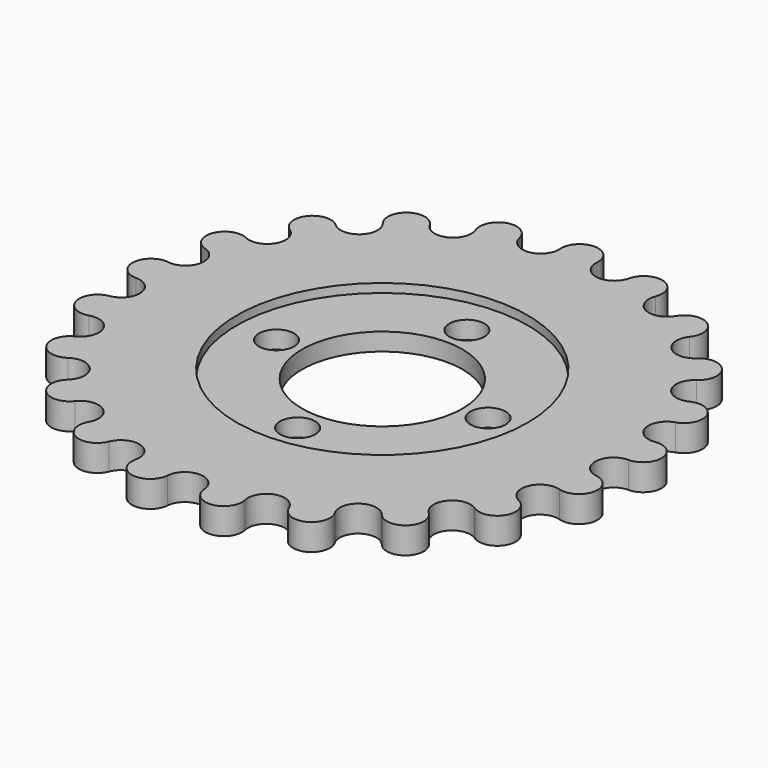
from build123d import *

# Parameters (mm, degrees)
F0_R     = 1
F0_R_2   = 4.55
F1_DEPTH = 1.5
F2_R     = 8.25
F3_DEPTH = 0.5


with BuildPart() as f1:
    # F0 (on Top) → F1 (new body)
    with BuildSketch(Plane.XY):
        with BuildLine():
            ThreePointArc((3.106582, 13.610825), (1.930661, 12.809096), (1.043296, 13.921816))
            ThreePointArc((1.043296, 13.921816), (0, 15.046221), (-1.043296, 13.921816))
            ThreePointArc((-1.043296, 13.921816), (-1.930661, 12.809096), (-3.106582, 13.610825))
            ThreePointArc((-3.106582, 13.610825), (-4.434952, 14.37776), (-5.100472, 12.995792))
            ThreePointArc((-5.100472, 12.995792), (-5.620434, 11.670951), (-6.980427, 12.090453))
            ThreePointArc((-6.980427, 12.090453), (-8.475838, 12.431771), (-8.70445, 10.915035))
            ThreePointArc((-8.70445, 10.915035), (-8.810807, 9.495792), (-10.23403, 9.495792))
            ThreePointArc((-10.23403, 9.495792), (-11.76361, 9.381166), (-11.534998, 7.864429))
            ThreePointArc((-11.534998, 7.864429), (-11.218301, 6.476889), (-12.578294, 6.057387))
            ThreePointArc((-12.578294, 6.057387), (-14.006132, 5.497002), (-13.340612, 4.115034))
            ThreePointArc((-13.340612, 4.115034), (-12.629, 2.882487), (-13.804922, 2.080757))
            ThreePointArc((-13.804922, 2.080757), (-15.004149, 1.124406), (-13.960853, 0))
            ThreePointArc((-13.960853, 0), (-12.917557, -0.968037), (-13.804922, -2.080757))
            ThreePointArc((-13.804922, -2.080757), (-14.668981, -3.348099), (-13.340612, -4.115034))
            ThreePointArc((-13.340612, -4.115034), (-12.058333, -4.732547), (-12.578294, -6.057387))
            ThreePointArc((-12.578294, -6.057387), (-13.03041, -7.523111), (-11.534998, -7.864429))
            ThreePointArc((-11.534998, -7.864429), (-10.127672, -8.076549), (-10.23403, -9.495792))
            ThreePointArc((-10.23403, -9.495792), (-10.23403, -11.029661), (-8.70445, -10.915035))
            ThreePointArc((-8.70445, -10.915035), (-7.297123, -10.702914), (-6.980427, -12.090453))
            ThreePointArc((-6.980427, -12.090453), (-6.528311, -13.556177), (-5.100472, -12.995792))
            ThreePointArc((-5.100472, -12.995792), (-3.818193, -12.378279), (-3.106582, -13.610825))
            ThreePointArc((-3.106582, -13.610825), (-2.242523, -14.878167), (-1.043296, -13.921816))
            ThreePointArc((-1.043296, -13.921816), (0, -12.953779), (1.043296, -13.921816))
            ThreePointArc((1.043296, -13.921816), (2.242523, -14.878167), (3.106582, -13.610825))
            ThreePointArc((3.106582, -13.610825), (3.818193, -12.378279), (5.100472, -12.995792))
            ThreePointArc((5.100472, -12.995792), (6.528311, -13.556177), (6.980427, -12.090453))
            ThreePointArc((6.980427, -12.090453), (7.297123, -10.702914), (8.70445, -10.915035))
            ThreePointArc((8.70445, -10.915035), (10.23403, -11.029661), (10.23403, -9.495792))
            ThreePointArc((10.23403, -9.495792), (10.127672, -8.076549), (11.534998, -7.864429))
            ThreePointArc((11.534998, -7.864429), (13.03041, -7.523111), (12.578294, -6.057387))
            ThreePointArc((12.578294, -6.057387), (12.058333, -4.732547), (13.340612, -4.115034))
            ThreePointArc((13.340612, -4.115034), (14.668981, -3.348099), (13.804922, -2.080757))
            ThreePointArc((13.804922, -2.080757), (12.917557, -0.968037), (13.960853, 0))
            ThreePointArc((13.960853, 0), (15.004149, 1.124406), (13.804922, 2.080757))
            ThreePointArc((13.804922, 2.080757), (12.629, 2.882487), (13.340612, 4.115034))
            ThreePointArc((13.340612, 4.115034), (14.006132, 5.497002), (12.578294, 6.057387))
            ThreePointArc((12.578294, 6.057387), (11.218301, 6.476889), (11.534998, 7.864429))
            ThreePointArc((11.534998, 7.864429), (11.76361, 9.381166), (10.23403, 9.495792))
            ThreePointArc((10.23403, 9.495792), (8.810807, 9.495792), (8.70445, 10.915035))
            ThreePointArc((8.70445, 10.915035), (8.475838, 12.431771), (6.980427, 12.090453))
            ThreePointArc((6.980427, 12.090453), (5.620434, 11.670951), (5.100472, 12.995792))
            ThreePointArc((5.100472, 12.995792), (4.434952, 14.37776), (3.106582, 13.610825))
        make_face()
        with Locations((-6, 0)):
            Circle(F0_R, mode=Mode.SUBTRACT)
        with Locations((0, -6)):
            Circle(F0_R, mode=Mode.SUBTRACT)
        Circle(F0_R_2, mode=Mode.SUBTRACT)
        with Locations((6, 0)):
            Circle(F0_R, mode=Mode.SUBTRACT)
        with Locations((0, 6)):
            Circle(F0_R, mode=Mode.SUBTRACT)
    extrude(amount=F1_DEPTH)

    # F2 (on face) → F3 (cut)
    with BuildSketch(Plane.XY.offset(1.5)):
        Circle(F2_R)
    extrude(amount=-F3_DEPTH, mode=Mode.SUBTRACT)


solid = f1.part
